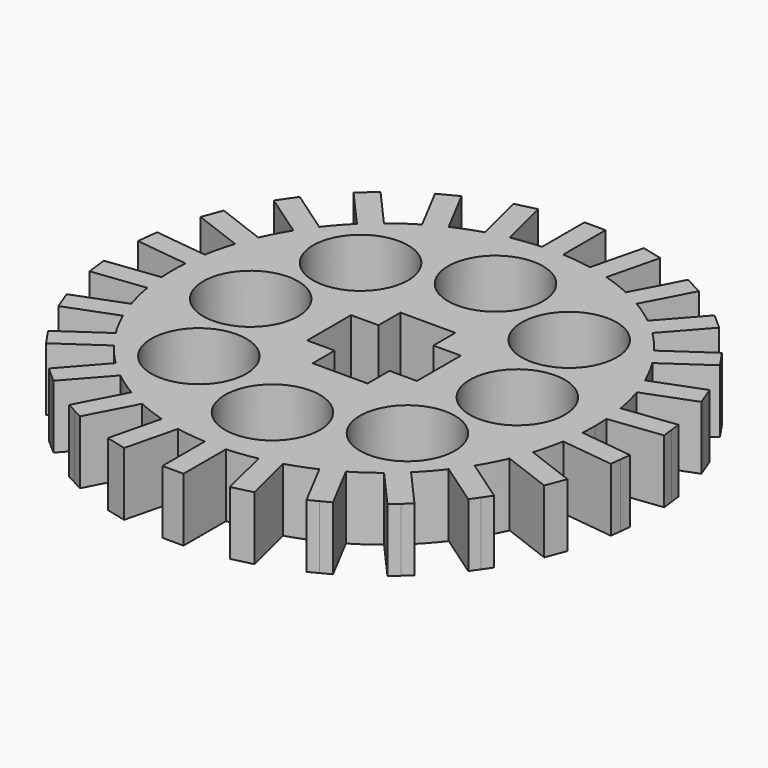
from build123d import *

# Parameters (mm, degrees)
F0_R     = 2.25
F1_DEPTH = 3


with BuildPart() as f1:
    # F0 (on Top) → F1 (new body)
    with BuildSketch(Plane.XY):
        with BuildLine():
            ThreePointArc((9.97494, -0.707505), (9.993733, -0.353974), (10, 0))
            ThreePointArc((10, 0), (9.993733, 0.353974), (9.97494, 0.707505))
            ThreePointArc((9.97494, 0.707505), (9.927089, 1.205367), (9.854404, 1.700214))
            ThreePointArc((9.854404, 1.700214), (9.709418, 2.393157), (9.51577, 3.074105))
            ThreePointArc((9.51577, 3.074105), (9.350162, 3.546049), (9.161165, 4.009122))
            ThreePointArc((9.161165, 4.009122), (8.85456, 4.647232), (8.503577, 5.26205))
            ThreePointArc((8.503577, 5.26205), (8.229839, 5.680647), (7.935513, 6.085034))
            ThreePointArc((7.935513, 6.085034), (7.485107, 6.631227), (6.997188, 7.144184))
            ThreePointArc((6.997188, 7.144184), (6.631227, 7.485107), (6.248677, 7.807307))
            ThreePointArc((6.248677, 7.807307), (5.680647, 8.229839), (5.084147, 8.611124))
            ThreePointArc((5.084147, 8.611124), (4.647232, 8.85456), (4.198691, 9.075847))
            ThreePointArc((4.198691, 9.075847), (3.546049, 9.350162), (2.875634, 9.577616))
            ThreePointArc((2.875634, 9.577616), (2.393157, 9.709418), (1.904692, 9.816932))
            ThreePointArc((1.904692, 9.816932), (1.205367, 9.927089), (0.5, 9.987492))
            ThreePointArc((0.5, 9.987492), (0, 10), (-0.5, 9.987492))
            ThreePointArc((-0.5, 9.987492), (-1.205367, 9.927089), (-1.904692, 9.816932))
            ThreePointArc((-1.904692, 9.816932), (-2.393157, 9.709418), (-2.875634, 9.577616))
            ThreePointArc((-2.875634, 9.577616), (-3.546049, 9.350162), (-4.198691, 9.075847))
            ThreePointArc((-4.198691, 9.075847), (-4.647232, 8.85456), (-5.084147, 8.611124))
            ThreePointArc((-5.084147, 8.611124), (-5.680647, 8.229839), (-6.248677, 7.807307))
            ThreePointArc((-6.248677, 7.807307), (-6.631227, 7.485107), (-6.997188, 7.144184))
            ThreePointArc((-6.997188, 7.144184), (-7.485107, 6.631227), (-7.935513, 6.085034))
            ThreePointArc((-7.935513, 6.085034), (-8.229839, 5.680647), (-8.503577, 5.26205))
            ThreePointArc((-8.503577, 5.26205), (-8.85456, 4.647232), (-9.161165, 4.009122))
            ThreePointArc((-9.161165, 4.009122), (-9.350162, 3.546049), (-9.51577, 3.074105))
            ThreePointArc((-9.51577, 3.074105), (-9.709418, 2.393157), (-9.854404, 1.700214))
            ThreePointArc((-9.854404, 1.700214), (-9.927089, 1.205367), (-9.97494, 0.707505))
            ThreePointArc((-9.97494, 0.707505), (-10, 0), (-9.97494, -0.707505))
            ThreePointArc((-9.97494, -0.707505), (-9.927089, -1.205367), (-9.854404, -1.700214))
            ThreePointArc((-9.854404, -1.700214), (-9.709418, -2.393157), (-9.51577, -3.074105))
            ThreePointArc((-9.51577, -3.074105), (-9.350162, -3.546049), (-9.161165, -4.009122))
            ThreePointArc((-9.161165, -4.009122), (-8.85456, -4.647232), (-8.503577, -5.26205))
            ThreePointArc((-8.503577, -5.26205), (-8.229839, -5.680647), (-7.935513, -6.085034))
            ThreePointArc((-7.935513, -6.085034), (-7.485107, -6.631227), (-6.997188, -7.144184))
            ThreePointArc((-6.997188, -7.144184), (-6.631227, -7.485107), (-6.248677, -7.807307))
            ThreePointArc((-6.248677, -7.807307), (-5.680647, -8.229839), (-5.084147, -8.611124))
            ThreePointArc((-5.084147, -8.611124), (-4.647232, -8.85456), (-4.198691, -9.075847))
            ThreePointArc((-4.198691, -9.075847), (-3.546049, -9.350162), (-2.875634, -9.577616))
            ThreePointArc((-2.875634, -9.577616), (-2.393157, -9.709418), (-1.904692, -9.816932))
            ThreePointArc((-1.904692, -9.816932), (-1.205367, -9.927089), (-0.5, -9.987492))
            ThreePointArc((-0.5, -9.987492), (-0.250078, -9.996873), (0, -10))
            ThreePointArc((0, -10), (0.250078, -9.996873), (0.5, -9.987492))
            ThreePointArc((0.5, -9.987492), (1.205367, -9.927089), (1.904692, -9.816932))
            ThreePointArc((1.904692, -9.816932), (2.393157, -9.709418), (2.875634, -9.577616))
            ThreePointArc((2.875634, -9.577616), (3.546049, -9.350162), (4.198691, -9.075847))
            ThreePointArc((4.198691, -9.075847), (4.647232, -8.85456), (5.084147, -8.611124))
            ThreePointArc((5.084147, -8.611124), (5.680647, -8.229839), (6.248677, -7.807307))
            ThreePointArc((6.248677, -7.807307), (6.631227, -7.485107), (6.997188, -7.144184))
            ThreePointArc((6.997188, -7.144184), (7.485107, -6.631227), (7.935513, -6.085034))
            ThreePointArc((7.935513, -6.085034), (8.229839, -5.680647), (8.503577, -5.26205))
            ThreePointArc((8.503577, -5.26205), (8.85456, -4.647232), (9.161165, -4.009122))
            ThreePointArc((9.161165, -4.009122), (9.350162, -3.546049), (9.51577, -3.074105))
            ThreePointArc((9.51577, -3.074105), (9.709418, -2.393157), (9.854404, -1.700214))
            ThreePointArc((9.854404, -1.700214), (9.927089, -1.205367), (9.97494, -0.707505))
        make_face()
        with Locations((-4.942989, -4.790889)):
            Circle(F0_R, mode=Mode.SUBTRACT)
        with Locations((0, -6.605956)):
            Circle(F0_R, mode=Mode.SUBTRACT)
        with Locations((4.942989, -4.790889)):
            Circle(F0_R, mode=Mode.SUBTRACT)
        with Locations((-6.317645, 0)):
            Circle(F0_R, mode=Mode.SUBTRACT)
        with Locations((-4.942989, 4.790889)):
            Circle(F0_R, mode=Mode.SUBTRACT)
        Polygon((-1.3, 2.6), (0, 2.6), (1.3, 2.6), (1.3, 1.3), (2.6, 1.3), (2.6, 0), (2.6, -1.3), (1.3, -1.3), (1.3, -2.6), (0, -2.6), (-1.3, -2.6), (-1.3, -1.3), (-2.6, -1.3), (-2.6, 0), (-2.6, 1.3), (-1.3, 1.3), align=None, mode=Mode.SUBTRACT)
        with Locations((4.942989, 4.790889)):
            Circle(F0_R, mode=Mode.SUBTRACT)
        with Locations((6.317645, 0)):
            Circle(F0_R, mode=Mode.SUBTRACT)
        with Locations((0, 6.605956)):
            Circle(F0_R, mode=Mode.SUBTRACT)
        with BuildLine():
            ThreePointArc((9.854404, 1.700214), (9.927089, 1.205367), (9.97494, 0.707505))
            Line((9.97494, 0.707505), (12.469129, 1.010354))
            Line((12.469129, 1.010354), (12.408861, 1.506709))
            Line((12.408861, 1.506709), (12.348593, 2.003063))
            Line((12.348593, 2.003063), (9.854404, 1.700214))
        make_face()
        with BuildLine():
            Line((12.469129, -1.010354), (9.97494, -0.707505))
            ThreePointArc((9.97494, -0.707505), (9.927089, -1.205367), (9.854404, -1.700214))
            Line((9.854404, -1.700214), (12.348593, -2.003063))
            Line((12.348593, -2.003063), (12.408861, -1.506709))
            Line((12.408861, -1.506709), (12.469129, -1.010354))
        make_face()
        with BuildLine():
            ThreePointArc((9.161165, 4.009122), (9.350162, 3.546049), (9.51577, 3.074105))
            Line((9.51577, 3.074105), (11.865005, 3.965053))
            Line((11.865005, 3.965053), (11.687703, 4.432561))
            Line((11.687703, 4.432561), (11.510401, 4.900069))
            Line((11.510401, 4.900069), (9.161165, 4.009122))
        make_face()
        with BuildLine():
            Line((11.865005, -3.965053), (9.51577, -3.074105))
            ThreePointArc((9.51577, -3.074105), (9.350162, -3.546049), (9.161165, -4.009122))
            Line((9.161165, -4.009122), (11.510401, -4.900069))
            Line((11.510401, -4.900069), (11.687703, -4.432561))
            Line((11.687703, -4.432561), (11.865005, -3.965053))
        make_face()
        with BuildLine():
            ThreePointArc((7.935513, 6.085034), (8.229839, 5.680647), (8.503577, 5.26205))
            Line((8.503577, 5.26205), (10.571331, 6.689317))
            Line((10.571331, 6.689317), (10.287298, 7.100809))
            Line((10.287298, 7.100809), (10.003266, 7.512301))
            Line((10.003266, 7.512301), (7.935513, 6.085034))
        make_face()
        with BuildLine():
            Line((10.571331, -6.689317), (8.503577, -5.26205))
            ThreePointArc((8.503577, -5.26205), (8.229839, -5.680647), (7.935513, -6.085034))
            Line((7.935513, -6.085034), (10.003266, -7.512301))
            Line((10.003266, -7.512301), (10.287298, -7.100809))
            Line((10.287298, -7.100809), (10.571331, -6.689317))
        make_face()
        with BuildLine():
            ThreePointArc((6.248677, 7.807307), (6.631227, 7.485107), (6.997188, 7.144184))
            Line((6.997188, 7.144184), (8.663289, 9.024823))
            Line((8.663289, 9.024823), (8.289033, 9.356384))
            Line((8.289033, 9.356384), (7.914778, 9.687946))
            Line((7.914778, 9.687946), (6.248677, 7.807307))
        make_face()
        with BuildLine():
            Line((8.663289, -9.024823), (6.997188, -7.144184))
            ThreePointArc((6.997188, -7.144184), (6.631227, -7.485107), (6.248677, -7.807307))
            Line((6.248677, -7.807307), (7.914778, -9.687946))
            Line((7.914778, -9.687946), (8.289033, -9.356384))
            Line((8.289033, -9.356384), (8.663289, -9.024823))
        make_face()
        with BuildLine():
            ThreePointArc((4.198691, 9.075847), (4.647232, 8.85456), (5.084147, 8.611124))
            Line((5.084147, 8.611124), (6.251768, 10.835839))
            Line((6.251768, 10.835839), (5.80904, 11.0682))
            Line((5.80904, 11.0682), (5.366312, 11.300562))
            Line((5.366312, 11.300562), (4.198691, 9.075847))
        make_face()
        with BuildLine():
            Line((6.251768, -10.835839), (5.084147, -8.611124))
            ThreePointArc((5.084147, -8.611124), (4.647232, -8.85456), (4.198691, -9.075847))
            Line((4.198691, -9.075847), (5.366312, -11.300562))
            Line((5.366312, -11.300562), (5.80904, -11.0682))
            Line((5.80904, -11.0682), (6.251768, -10.835839))
        make_face()
        with BuildLine():
            ThreePointArc((1.904692, 9.816932), (2.393157, 9.709418), (2.875634, 9.577616))
            Line((2.875634, 9.577616), (3.476917, 12.017115))
            Line((3.476917, 12.017115), (2.991446, 12.136773))
            Line((2.991446, 12.136773), (2.505975, 12.256431))
            Line((2.505975, 12.256431), (1.904692, 9.816932))
        make_face()
        with BuildLine():
            Line((3.476917, -12.017115), (2.875634, -9.577616))
            ThreePointArc((2.875634, -9.577616), (2.393157, -9.709418), (1.904692, -9.816932))
            Line((1.904692, -9.816932), (2.505975, -12.256431))
            Line((2.505975, -12.256431), (2.991446, -12.136773))
            Line((2.991446, -12.136773), (3.476917, -12.017115))
        make_face()
        with BuildLine():
            ThreePointArc((-0.5, 9.987492), (0, 10), (0.5, 9.987492))
            Line((0.5, 9.987492), (0.5, 12.5))
            Line((0.5, 12.5), (0, 12.5))
            Line((0, 12.5), (-0.5, 12.5))
            Line((-0.5, 12.5), (-0.5, 9.987492))
        make_face()
        with BuildLine():
            Line((0.5, -12.5), (0.5, -9.987492))
            ThreePointArc((0.5, -9.987492), (0.250078, -9.996873), (0, -10))
            Line((0, -10), (0, -12.5))
            Line((0, -12.5), (0.5, -12.5))
        make_face()
        with BuildLine():
            Line((0, -12.5), (0, -10))
            ThreePointArc((0, -10), (-0.250078, -9.996873), (-0.5, -9.987492))
            Line((-0.5, -9.987492), (-0.5, -12.5))
            Line((-0.5, -12.5), (0, -12.5))
        make_face()
        with BuildLine():
            ThreePointArc((-2.875634, 9.577616), (-2.393157, 9.709418), (-1.904692, 9.816932))
            Line((-1.904692, 9.816932), (-2.505975, 12.256431))
            Line((-2.505975, 12.256431), (-2.991446, 12.136773))
            Line((-2.991446, 12.136773), (-3.476917, 12.017115))
            Line((-3.476917, 12.017115), (-2.875634, 9.577616))
        make_face()
        with BuildLine():
            Line((-2.505975, -12.256431), (-1.904692, -9.816932))
            ThreePointArc((-1.904692, -9.816932), (-2.393157, -9.709418), (-2.875634, -9.577616))
            Line((-2.875634, -9.577616), (-3.476917, -12.017115))
            Line((-3.476917, -12.017115), (-2.991446, -12.136773))
            Line((-2.991446, -12.136773), (-2.505975, -12.256431))
        make_face()
        with BuildLine():
            ThreePointArc((-5.084147, 8.611124), (-4.647232, 8.85456), (-4.198691, 9.075847))
            Line((-4.198691, 9.075847), (-5.366312, 11.300562))
            Line((-5.366312, 11.300562), (-5.80904, 11.0682))
            Line((-5.80904, 11.0682), (-6.251768, 10.835839))
            Line((-6.251768, 10.835839), (-5.084147, 8.611124))
        make_face()
        with BuildLine():
            Line((-5.366312, -11.300562), (-4.198691, -9.075847))
            ThreePointArc((-4.198691, -9.075847), (-4.647232, -8.85456), (-5.084147, -8.611124))
            Line((-5.084147, -8.611124), (-6.251768, -10.835839))
            Line((-6.251768, -10.835839), (-5.80904, -11.0682))
            Line((-5.80904, -11.0682), (-5.366312, -11.300562))
        make_face()
        with BuildLine():
            ThreePointArc((-6.997188, 7.144184), (-6.631227, 7.485107), (-6.248677, 7.807307))
            Line((-6.248677, 7.807307), (-7.914778, 9.687946))
            Line((-7.914778, 9.687946), (-8.289033, 9.356384))
            Line((-8.289033, 9.356384), (-8.663289, 9.024823))
            Line((-8.663289, 9.024823), (-6.997188, 7.144184))
        make_face()
        with BuildLine():
            Line((-7.914778, -9.687946), (-6.248677, -7.807307))
            ThreePointArc((-6.248677, -7.807307), (-6.631227, -7.485107), (-6.997188, -7.144184))
            Line((-6.997188, -7.144184), (-8.663289, -9.024823))
            Line((-8.663289, -9.024823), (-8.289033, -9.356384))
            Line((-8.289033, -9.356384), (-7.914778, -9.687946))
        make_face()
        with BuildLine():
            ThreePointArc((-8.503577, 5.26205), (-8.229839, 5.680647), (-7.935513, 6.085034))
            Line((-7.935513, 6.085034), (-10.003266, 7.512301))
            Line((-10.003266, 7.512301), (-10.287298, 7.100809))
            Line((-10.287298, 7.100809), (-10.571331, 6.689317))
            Line((-10.571331, 6.689317), (-8.503577, 5.26205))
        make_face()
        with BuildLine():
            Line((-10.003266, -7.512301), (-7.935513, -6.085034))
            ThreePointArc((-7.935513, -6.085034), (-8.229839, -5.680647), (-8.503577, -5.26205))
            Line((-8.503577, -5.26205), (-10.571331, -6.689317))
            Line((-10.571331, -6.689317), (-10.287298, -7.100809))
            Line((-10.287298, -7.100809), (-10.003266, -7.512301))
        make_face()
        with BuildLine():
            ThreePointArc((-9.51577, 3.074105), (-9.350162, 3.546049), (-9.161165, 4.009122))
            Line((-9.161165, 4.009122), (-11.510401, 4.900069))
            Line((-11.510401, 4.900069), (-11.687703, 4.432561))
            Line((-11.687703, 4.432561), (-11.865005, 3.965053))
            Line((-11.865005, 3.965053), (-9.51577, 3.074105))
        make_face()
        with BuildLine():
            Line((-11.510401, -4.900069), (-9.161165, -4.009122))
            ThreePointArc((-9.161165, -4.009122), (-9.350162, -3.546049), (-9.51577, -3.074105))
            Line((-9.51577, -3.074105), (-11.865005, -3.965053))
            Line((-11.865005, -3.965053), (-11.687703, -4.432561))
            Line((-11.687703, -4.432561), (-11.510401, -4.900069))
        make_face()
        with BuildLine():
            ThreePointArc((-9.97494, 0.707505), (-9.927089, 1.205367), (-9.854404, 1.700214))
            Line((-9.854404, 1.700214), (-12.348593, 2.003063))
            Line((-12.348593, 2.003063), (-12.408861, 1.506709))
            Line((-12.408861, 1.506709), (-12.469129, 1.010354))
            Line((-12.469129, 1.010354), (-9.97494, 0.707505))
        make_face()
        with BuildLine():
            Line((-12.348593, -2.003063), (-9.854404, -1.700214))
            ThreePointArc((-9.854404, -1.700214), (-9.927089, -1.205367), (-9.97494, -0.707505))
            Line((-9.97494, -0.707505), (-12.469129, -1.010354))
            Line((-12.469129, -1.010354), (-12.408861, -1.506709))
            Line((-12.408861, -1.506709), (-12.348593, -2.003063))
        make_face()
    extrude(amount=F1_DEPTH)


solid = f1.part
